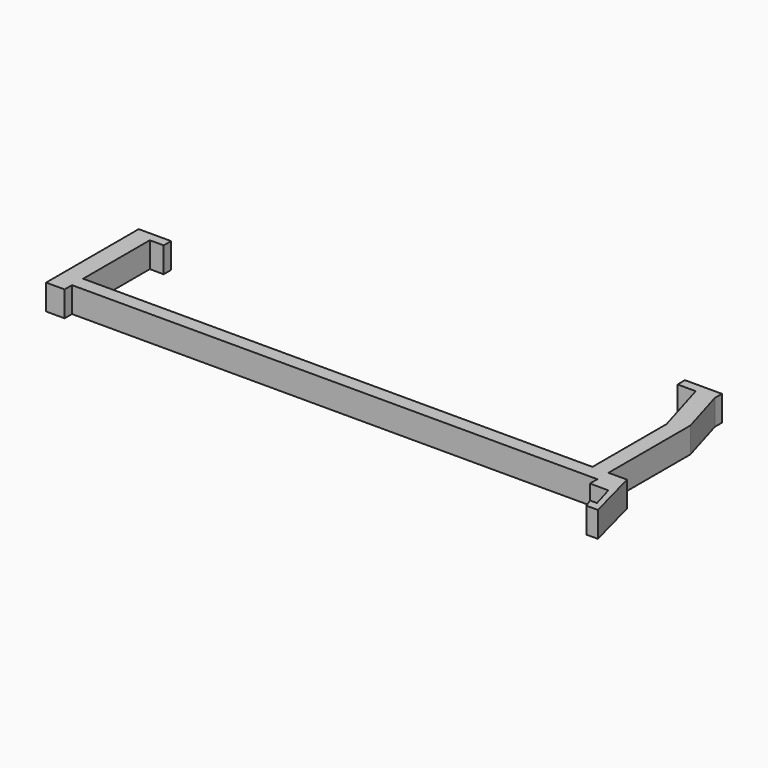
from build123d import *

# Parameters (mm, degrees)
F0_W     = 3
F0_H     = 2
F0_W_2   = 4
F0_H_2   = 2.991964
F1_DEPTH = 5.5


with BuildPart() as f1:
    # F0 (on Top) → F1 (new body)
    with BuildSketch(Plane.XY):
        Polygon((-36.408239, -50.416655), (-40.408239, -50.416655), (-40.408239, -73.416655), (-36.408239, -73.416655), (-36.408239, -70.416655), (-36.408239, -52.416655), align=None)
        with Locations((-34.908239, -51.416655)):
            Rectangle(F0_W, F0_H)
        with Locations((-38.408239, -74.416655)):
            Rectangle(F0_W_2, F0_H)
        Polygon((-36.408239, -70.416655), (-36.408239, -73.416655), (77.031761, -73.416655), (77.031761, -73.408619), (77.031761, -70.416655), (73.57222, -70.416655), align=None)
        Polygon((77.031761, -73.408619), (77.031761, -73.416655), (77.031761, -75.408619), (81.031761, -75.453453), (81.031761, -73.408619), align=None)
        Polygon((73.57222, -50.416655), (73.57222, -70.416655), (77.031761, -70.416655), (77.031761, -48.309352), (73.952891, -37.865963), (73.952891, -35.947701), (65.952891, -35.947701), (65.994848, -37.94726), (69.896053, -37.94726), align=None)
        with Locations((79.031761, -71.912637)):
            Rectangle(F0_W_2, F0_H_2)
        Polygon((81.031761, -70.416655), (81.031761, -73.408619), (81.031761, -75.453453), (82.42857, -80.254382), (80.92857, -80.254382), (81.617752, -82.131888), (84.117752, -82.131888), align=None)
    extrude(amount=F1_DEPTH)


solid = f1.part
